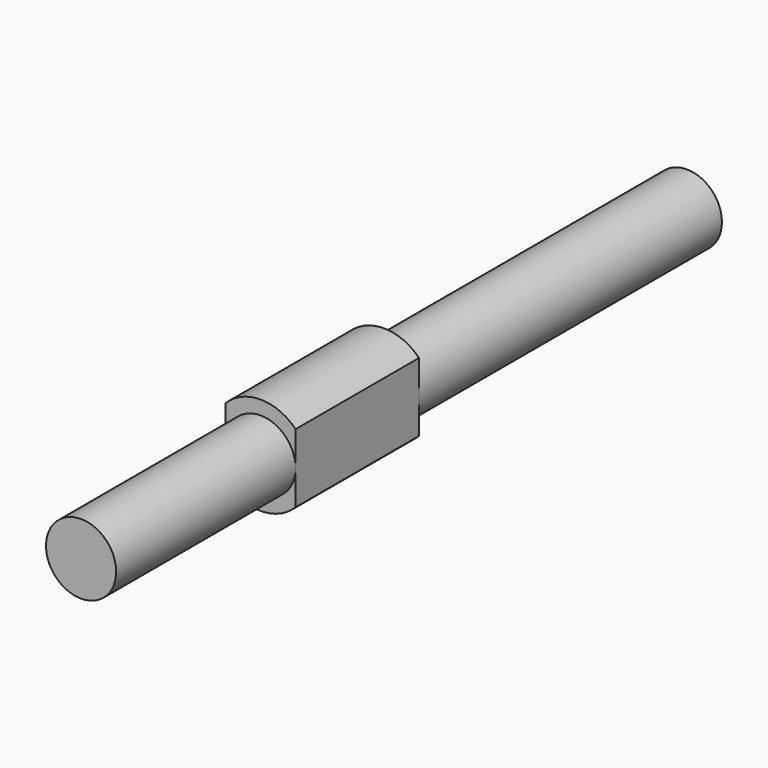
from build123d import *

# Parameters (mm, degrees)
F1_DEPTH = 5.5
F2_R     = 1.25
F3_DEPTH = 13.5


with BuildPart() as f1:
    # F0 (on Front) → F1 (new body)
    with BuildSketch(Plane.XZ):
        with BuildLine():
            Line((-1.25, 1.224745), (-1.25, -1.224745))
            ThreePointArc((-1.25, -1.224745), (0, -1.75), (1.25, -1.224745))
            Line((1.25, -1.224745), (1.25, 1.224745))
            ThreePointArc((1.25, 1.224745), (0, 1.75), (-1.25, 1.224745))
        make_face()
    extrude(amount=F1_DEPTH)

    # F2 (on Front) → F3 (join, symmetric)
    with BuildSketch(Plane.XZ):
        Circle(F2_R)
    extrude(amount=F3_DEPTH, both=True)


solid = f1.part
